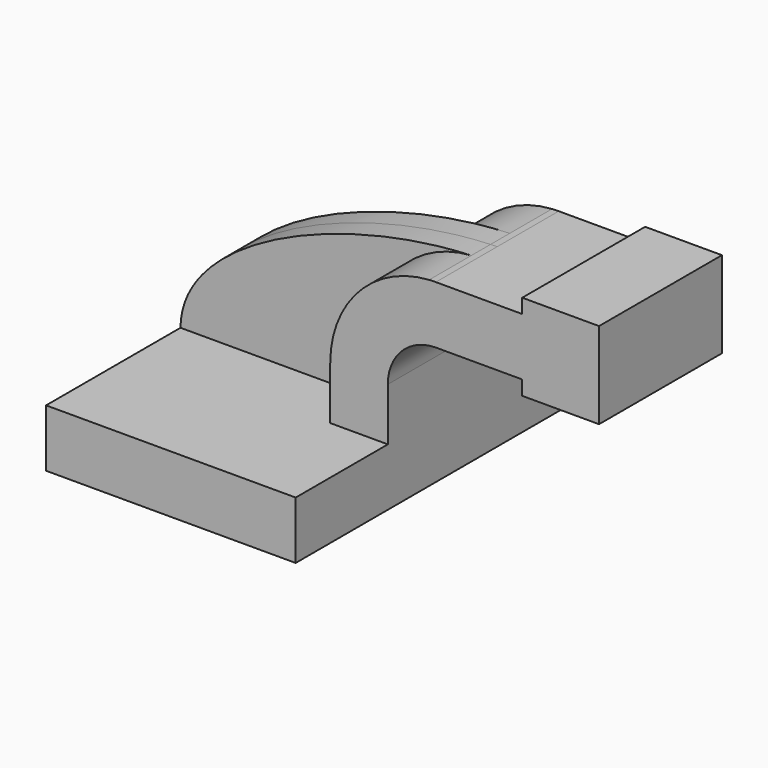
from build123d import *

# Parameters (mm, degrees)
F1_DEPTH = 63.5
F0_W     = 25.4
F0_H     = 19.05
F2_DEPTH = 25.4
F3_DEPTH = 7.9375


with BuildPart() as f1:
    # F0 (on Front) → F1 (new body, symmetric)
    with BuildSketch(Plane.XZ):
        Polygon((-41.275, 9.525), (-41.275, -9.525), (41.275, -9.525), (41.275, 9.525), (22.225, 9.525), align=None)
    extrude(amount=F1_DEPTH, both=True)

    # F0 (on Front) → F2 (join, symmetric)
    with BuildSketch(Plane.XZ):
        with BuildLine():
            Line((22.225, 9.525), (41.275, 9.525))
            Line((41.275, 9.525), (41.275, 27.0002))
            ThreePointArc((41.275, 27.0002), (45.9246798487, 38.2255201513), (57.15, 42.8752))
            Line((57.15, 42.8752), (60.325, 42.8752))
            Line((60.325, 42.8752), (60.325, 61.9252))
            Line((60.325, 61.9252), (57.15, 61.9252))
            add(Edge.make_bspline(
                [(54.9287877913, 61.8544944459), (55.6719665289, 61.8841036278), (56.4124732559, 61.9076963905), (57.15, 61.9252)],
                knots=[109.6288950018, 109.6288950018, 109.6288950018, 109.6288950018, 111.5045361635, 111.5045361635, 111.5045361635, 111.5045361635], degree=3))
            ThreePointArc((54.9287877913, 61.8544944459), (31.6810830483, 50.8976871965), (22.225, 27.0002))
            Line((22.225, 27.0002), (22.225, 9.525))
        make_face()
        with Locations((73.025, 52.4002)):
            Rectangle(F0_W, F0_H)
        Polygon((85.725, 66.675), (85.725, 61.9252), (85.725, 42.8752), (85.725, 38.1), (111.125, 38.1), (111.125, 66.675), align=None)
    extrude(amount=F2_DEPTH, both=True)

    # F0 (on Front) → F3 (join, symmetric)
    with BuildSketch(Plane.XZ):
        with BuildLine():
            add(Edge.make_bspline(
                [(-41.275, 9.525), (-41.075235058, 37.8396194046), (11.490914143, 60.123874562), (54.9287877913, 61.8544944459)],
                knots=[0, 0, 0, 0, 109.6288950018, 109.6288950018, 109.6288950018, 109.6288950018], degree=3))
            Line((-41.275, 9.525), (22.225, 9.525))
            Line((22.225, 9.525), (22.225, 27.0002))
            ThreePointArc((22.225, 27.0002), (31.6810830483, 50.8976871965), (54.9287877913, 61.8544944459))
        make_face()
    extrude(amount=F3_DEPTH, both=True)


solid = f1.part
